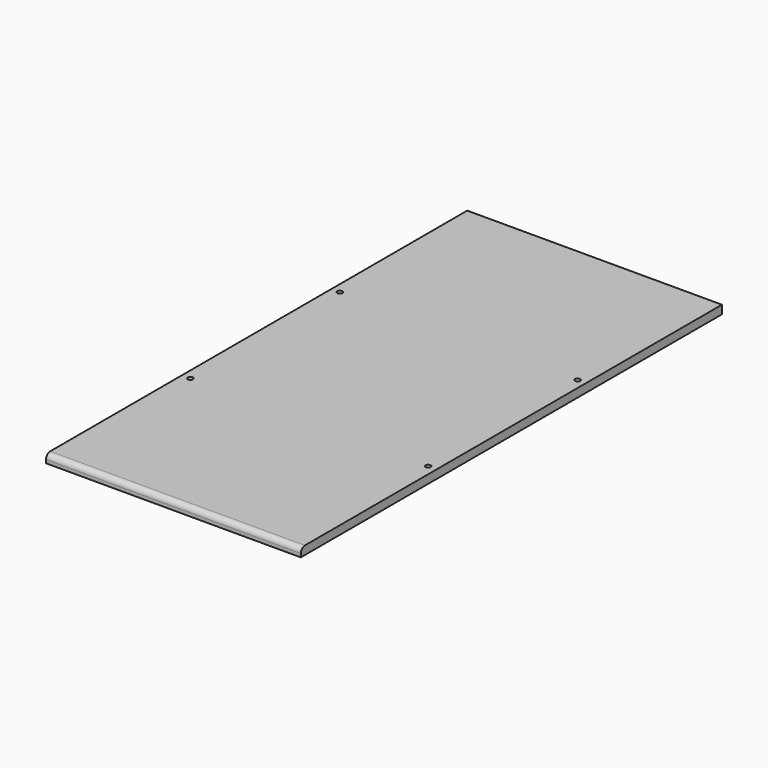
from build123d import *

# Parameters (mm, degrees)
F0_W     = 150
F0_H     = 310
F1_DEPTH = 5
F2_R     = 1.5
F3_DEPTH = 5
F4_R     = 3


with BuildPart() as f1:
    # F0 (on Top) → F1 (new body)
    with BuildSketch(Plane.XY):
        with Locations((-26.699642, 13.446885)):
            Rectangle(F0_W, F0_H)
    extrude(amount=F1_DEPTH)

    # F2 (on face) → F3 (cut, through all)
    with BuildSketch(Plane.XY.offset(5)):
        with Locations((-96.699642, 68.446885)):
            Circle(F2_R)
        with Locations((-96.699642, -41.553115)):
            Circle(F2_R)
        with Locations((43.300358, -41.553115)):
            Circle(F2_R)
        with Locations((43.300358, 68.446885)):
            Circle(F2_R)
    extrude(amount=-F3_DEPTH, mode=Mode.SUBTRACT)

    # F4
    f4_edges = [f1.edges().sort_by_distance(p)[0] for p in [
        (-26.699642, -141.553115, 5),
    ]]
    fillet(f4_edges, radius=F4_R)


solid = f1.part
